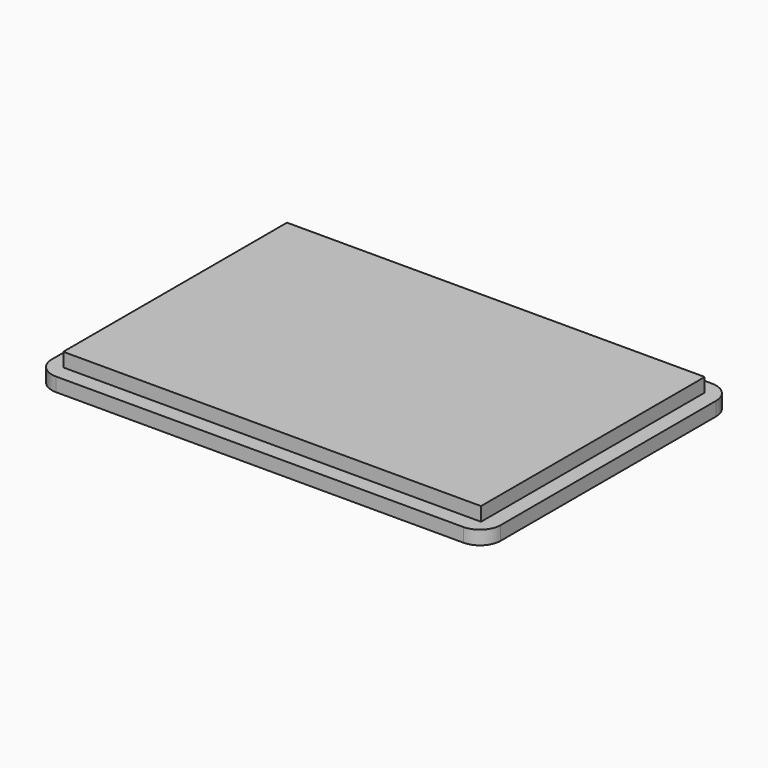
from build123d import *

# Parameters (mm, degrees)
F0_W     = 65
F0_H     = 45
F0_W_2   = 60.5
F0_H_2   = 40.5
F1_DEPTH = 2
F0_W_3   = 52
F0_H_3   = 32
F2_DEPTH = 4
F3_R     = 3


with BuildPart() as f1:
    # F0 (on Top) → F1 (new body)
    with BuildSketch(Plane.XY):
        Rectangle(F0_W, F0_H)
        Rectangle(F0_W_2, F0_H_2, mode=Mode.SUBTRACT)
    extrude(amount=F1_DEPTH)

    # F0 (on Top) → F2 (join)
    with BuildSketch(Plane.XY):
        Rectangle(F0_W_2, F0_H_2)
        Rectangle(F0_W_3, F0_H_3, mode=Mode.SUBTRACT)
        Rectangle(F0_W_3, F0_H_3)
    extrude(amount=F2_DEPTH)

    # F3
    f3_edges = [f1.edges().sort_by_distance(p)[0] for p in [
        (-32.5, 22.5, 1),
        (32.5, 22.5, 1),
        (32.5, -22.5, 1),
        (-32.5, -22.5, 1),
    ]]
    fillet(f3_edges, radius=F3_R)


solid = f1.part
